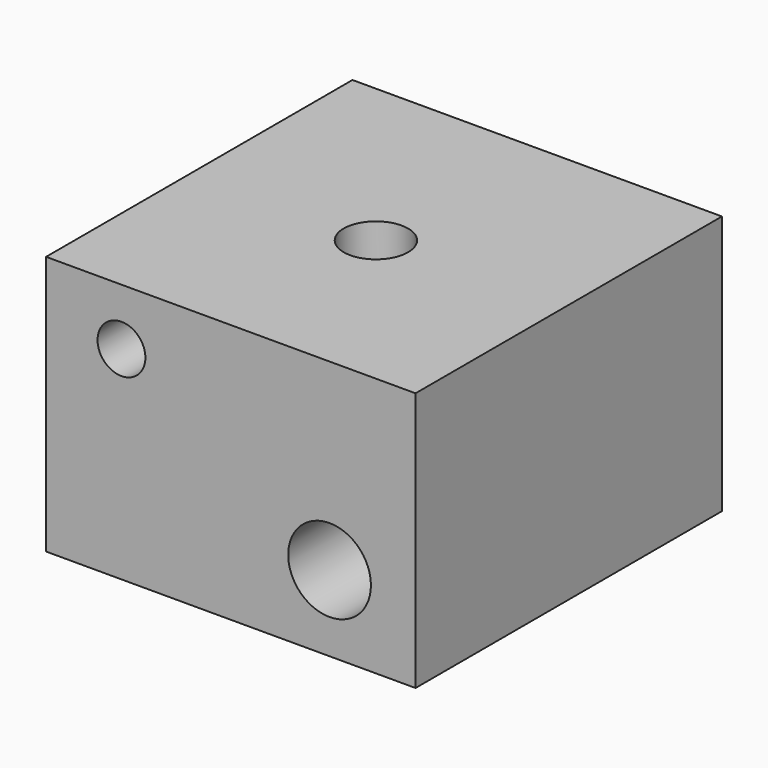
from build123d import *

# Parameters (mm, degrees)
F0_W          = 98.013702
F0_H          = 68.835622
F0_R          = 10.97537
F0_R_2        = 6.35
F1_DEPTH      = 63.5
F1_DEPTH_BACK = 38.1
F2_R          = 8.54279
F3_DEPTH      = 68.836623


with BuildPart() as f1:
    # F0 (on Front) → F1 (new body, two sides)
    with BuildSketch(Plane.XZ) as f1_sk:
        with Locations((5.161934, 2.408902)):
            Rectangle(F0_W, F0_H)
        with Locations((31.360572, -11.87192)):
            Circle(F0_R, mode=Mode.SUBTRACT)
        with Locations((-23.844917, 21.826713)):
            Circle(F0_R_2, mode=Mode.SUBTRACT)
    extrude(amount=F1_DEPTH)
    extrude(f1_sk.sketch, amount=-F1_DEPTH_BACK)

    # F2 (on face) → F3 (cut, through all)
    with BuildSketch(Plane.XY.offset(36.826713)):
        with Locations((4.90384, -15.055645)):
            Circle(F2_R)
    extrude(amount=-F3_DEPTH, mode=Mode.SUBTRACT)


solid = f1.part
